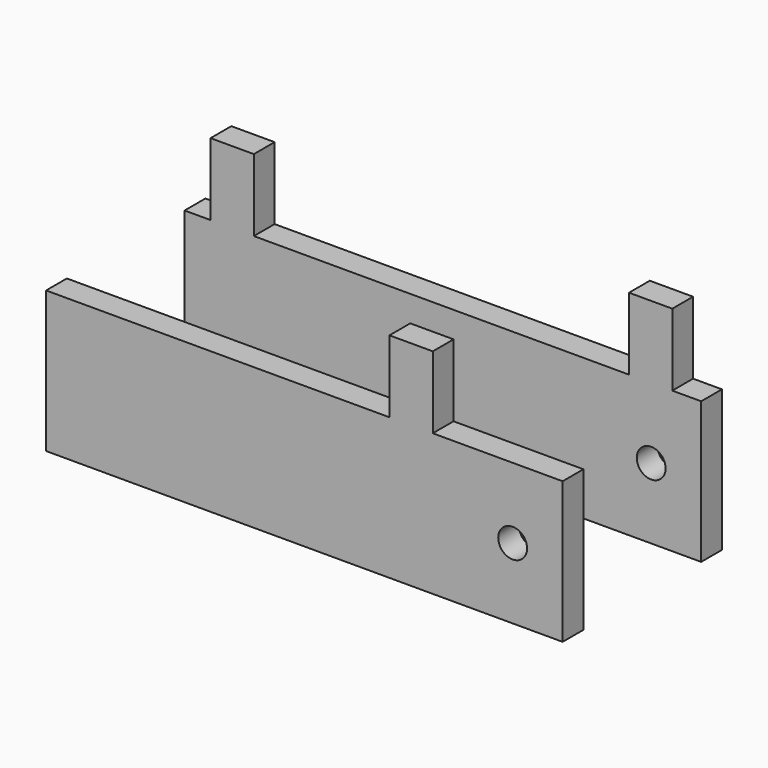
from build123d import *

# Parameters (mm, degrees)
SKETCH025_R      = 1
EXTRUDE027_DEPTH = 1.8
SKETCH026_R      = 1
EXTRUDE028_DEPTH = 1.8


with BuildPart() as position_holder_mid_body:
    # Sketch025 → Extrude027 (new body)
    with BuildSketch(Plane(origin=(0, 53, 0), x_dir=(-1, 0, 0), z_dir=(0, 1, 0))):
        Polygon((35.9, 10), (35.9, 0.2), (0.1, 0.2), (0.1, 10), (2.1, 10), (2.1, 15), (5.1, 15), (5.1, 10), (31.1, 10), (31.1, 15), (34.1, 15), (34.1, 10), align=None)
        with Locations((3.562658, 5.1)):
            Circle(SKETCH025_R, mode=Mode.SUBTRACT)
    extrude(amount=-EXTRUDE027_DEPTH)


with BuildPart() as position_holder_mid_body_1:
    # Extrude027 placement: moved
    add(position_holder_mid_body.part.moved(Location((0, 12, 0))))


with BuildPart() as position_holder_side_body:
    # Sketch026 → Extrude028 (new body)
    with BuildSketch(Plane(origin=(0, 53, 0), x_dir=(-1, 0, 0), z_dir=(0, 1, 0))):
        Polygon((35.9, 10), (35.9, 0.2), (0.1, 0.2), (0.1, 10), (9.1, 10), (9.1, 15), (12.1, 15), (12.1, 10), align=None)
        with Locations((3.562658, 5.1)):
            Circle(SKETCH026_R, mode=Mode.SUBTRACT)
    extrude(amount=-EXTRUDE028_DEPTH)


solid = Compound([position_holder_mid_body_1.part, position_holder_side_body.part])
